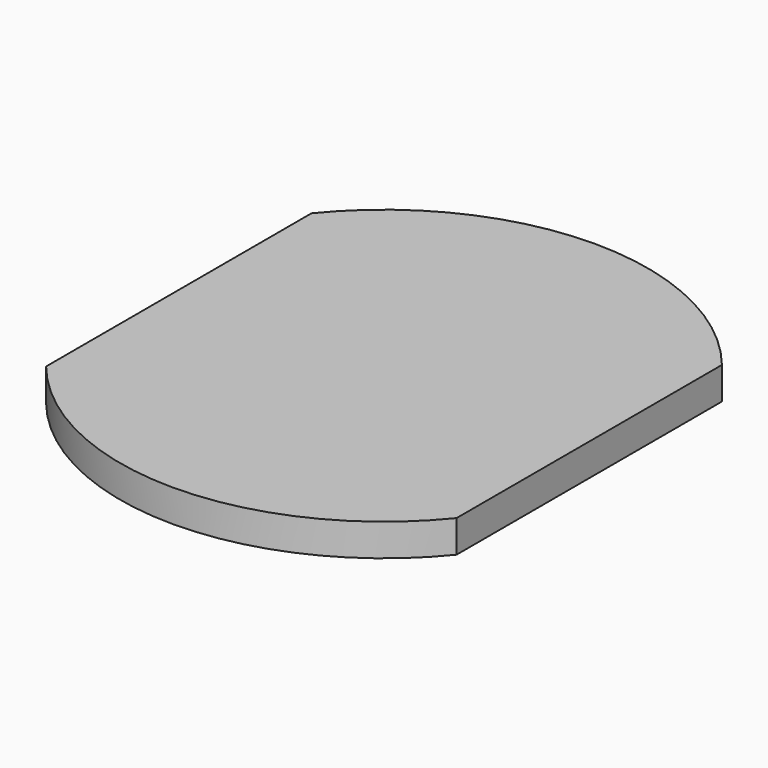
from build123d import *

# Parameters (mm, degrees)
SKETCH_1_R     = 45
PAD_1_DEPTH    = 5.5
SKETCH_2_W     = 15
SKETCH_2_H     = 100
POCKET_2_DEPTH = 5.501
SKETCH_3_W     = 15
SKETCH_3_H     = 100
POCKET_3_DEPTH = 5.501


with BuildPart() as part:
    # Sketch_1 → Pad_1 (new body)
    with BuildSketch(Plane.XY):
        Circle(SKETCH_1_R)
    extrude(amount=PAD_1_DEPTH)

    # Sketch_2 (on Face3 of Pad_1) → Pocket_2 (cut, through all)
    with BuildSketch(Plane.XY.offset(5.5)):
        with Locations((-42.5, 0)):
            Rectangle(SKETCH_2_W, SKETCH_2_H)
    extrude(amount=-POCKET_2_DEPTH, mode=Mode.SUBTRACT)

    # Sketch_3 (on Face3 of Pocket_2) → Pocket_3 (cut, through all)
    with BuildSketch(Plane.XY.offset(5.5)):
        with Locations((42.5, 0)):
            Rectangle(SKETCH_3_W, SKETCH_3_H)
    extrude(amount=-POCKET_3_DEPTH, mode=Mode.SUBTRACT)


solid = part.part
